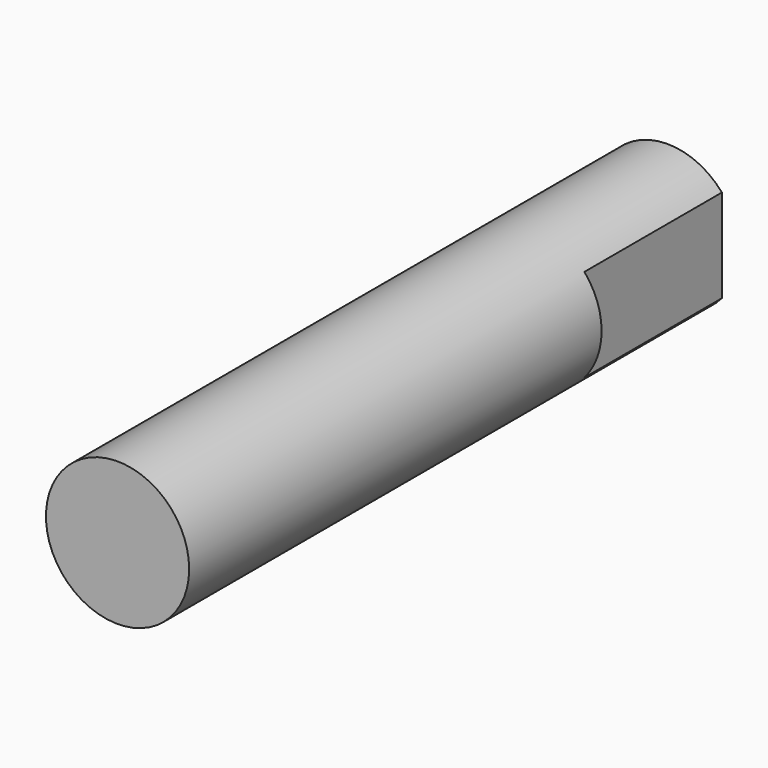
from build123d import *

# Parameters (mm, degrees)
F0_R     = 12.5
F1_DEPTH = 120
F3_D     = 7
F3_DEPTH = 40
F3_TIP   = 2.1030121666
F5_W     = 30
F5_H     = 30.6473458186
F6_DEPTH = 3


with BuildPart() as f1:
    # F0 (on Front) → F1 (new body)
    with BuildSketch(Plane.XZ):
        Circle(F0_R)
    extrude(amount=F1_DEPTH)

    # F3
    with Locations(Plane(origin=(0, 0, 0), x_dir=(-1, 0, 0), z_dir=(0, 1, 0))):
        with Locations((0, 0)):
            Hole(F3_D / 2, depth=F3_DEPTH)
            with Locations((0, 0, -(F3_DEPTH + F3_TIP / 2))):  # 118° drill point
                Cone(0, F3_D / 2, F3_TIP, mode=Mode.SUBTRACT)

    # F5 (on offset) → F6 (cut)
    with BuildSketch(Plane.YZ.offset(12.5)):
        with Locations((-15, -0.2489075996)):
            Rectangle(F5_W, F5_H)
    extrude(amount=-F6_DEPTH, mode=Mode.SUBTRACT)


solid = f1.part
